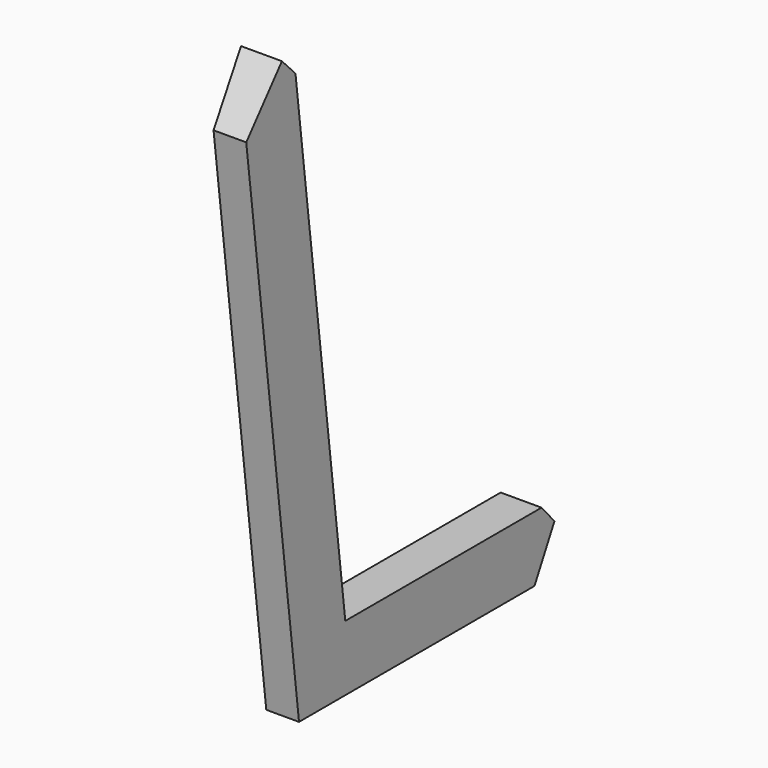
from build123d import *

# Parameters (mm, degrees)
F1_DEPTH = 50
F2_SIZE2 = 10
F2_SIZE  = 58
F3_SIZE2 = 62
F3_SIZE  = 10


with BuildPart() as f1:
    # F0 (on Right) → F1 (new body)
    with BuildSketch(Plane.YZ):
        Polygon((482.7914457609, 377.3975717771), (463.0650614387, 400), (163.0650614387, 400), (86.8967218104, 1020.3413447758), (66.1366664017, 1041.9982166512), (11.6469021237, 976.7612210971), (92.2870402742, 320), (452.2870402742, 320), align=None)
    extrude(amount=-F1_DEPTH)

    # F2
    f2_edges = [f1.edges().sort_by_distance(p)[0] for p in [
        (-50, 272.28704, 320),
    ]]
    f2_side = f1.faces().sort_by_distance((-50, 466.432885, 383.02992))[0]
    chamfer(f2_edges, length=F2_SIZE, length2=F2_SIZE2, reference=f2_side)

    # F3
    f3_edges = [f1.edges().sort_by_distance(p)[0] for p in [
        (-50, 48.406219, 677.380611),
    ]]
    f3_side = f1.faces().sort_by_distance((-24.806952, 51.628874, 651.134191))[0]
    chamfer(f3_edges, length=F3_SIZE, length2=F3_SIZE2, reference=f3_side)


solid = f1.part
